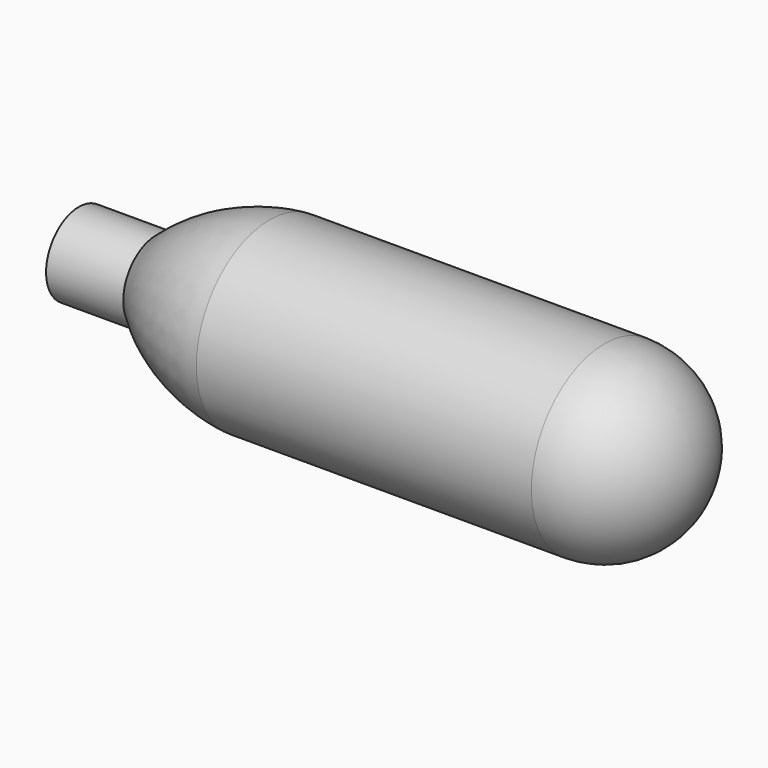
from build123d import *

# Parameters (mm, degrees)
F2_R     = 9.4996
F3_R     = 0.5
F4_DEPTH = 58


with BuildPart() as f1:
    # F0 (on Front) → F1 (revolve)
    with BuildSketch(Plane.XZ):
        with BuildLine():
            Line((0, 4.25), (0, 0))
            Line((0, 0), (8, 0))
            Line((8, 0), (64.008, 0))
            Line((64.008, 0), (64.008, 9.4996))
            Line((64.008, 9.4996), (47.55421, 9.4996))
            Line((47.55421, 9.4996), (32.004, 9.4996))
            Line((32.004, 9.4996), (19.776605, 9.4996))
            ThreePointArc((19.776605, 9.4996), (13.453427, 7.850371), (8, 4.25))
            Line((8, 4.25), (0, 4.25))
        make_face()
    revolve(axis=Axis((32.004, 0, 0), (1, 0, 0)))

    # F2
    f2_edges = [f1.edges().sort_by_distance(p)[0] for p in [
        (64.008, 0, -9.4996),
    ]]
    fillet(f2_edges, radius=F2_R)

    # F3 (on face) → F4 (cut)
    with BuildSketch(Plane(origin=(0, 0, 0), x_dir=(0, -1, 0), z_dir=(-1, 0, 0))):
        Circle(F3_R)
    extrude(amount=-F4_DEPTH, mode=Mode.SUBTRACT)


solid = f1.part
